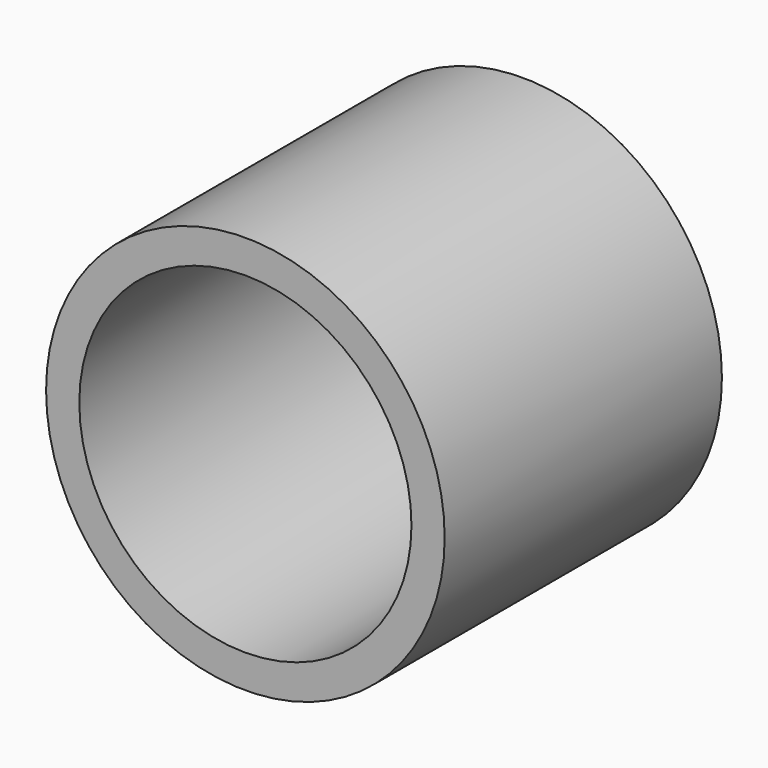
from build123d import *

# Parameters (mm, degrees)
F0_R          = 18
F1_DEPTH      = 15.65
F2_R          = 15
F3_DEPTH      = 15.651
F3_DEPTH_BACK = 15.651


with BuildPart() as f1:
    # F0 (on Front) → F1 (new body, symmetric)
    with BuildSketch(Plane.XZ):
        Circle(F0_R)
    extrude(amount=F1_DEPTH, both=True)

    # F2 (on Front) → F3 (cut, two sides)
    with BuildSketch(Plane.XZ) as f3_sk:
        Circle(F2_R)
    extrude(amount=-F3_DEPTH, mode=Mode.SUBTRACT)
    extrude(f3_sk.sketch, amount=F3_DEPTH_BACK, mode=Mode.SUBTRACT)


solid = f1.part
